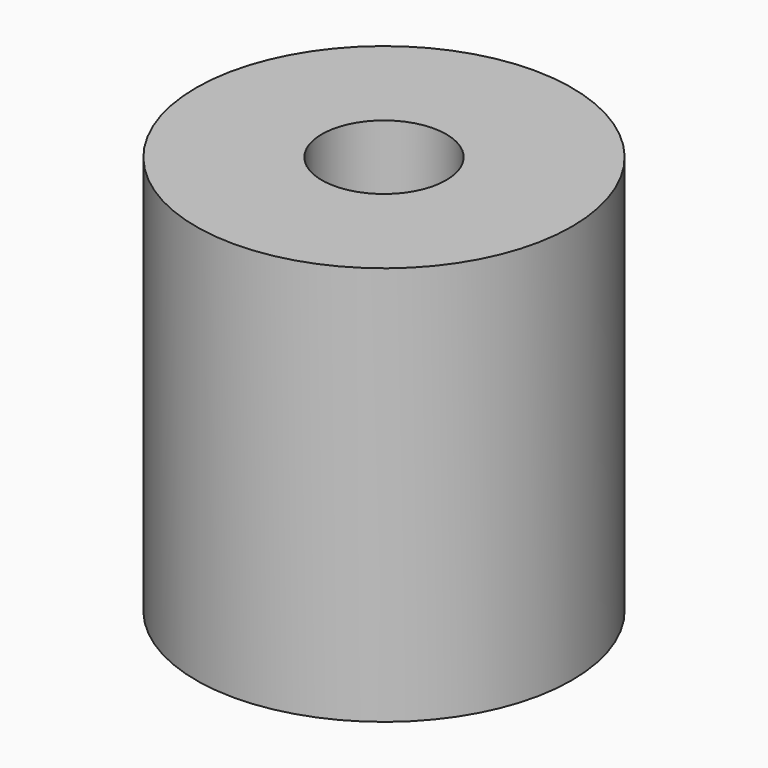
from build123d import *

# Parameters (mm, degrees)
CYLINDER697_R     = 2.65
CYLINDER697_DEPTH = 40
CYLINDER696_R     = 8
CYLINDER696_DEPTH = 17


with BuildPart() as obj1:
    # Cylinder697 → Cylinder697 (new body)
    with BuildSketch(Plane(origin=(0, 83, 232), x_dir=(1, 0, 0), z_dir=(0, 0, 1))):
        Circle(CYLINDER697_R)
    extrude(amount=CYLINDER697_DEPTH)


with BuildPart() as cut275:
    # Cylinder696 → Cylinder696 (new body)
    with BuildSketch(Plane(origin=(0, 83, 252), x_dir=(1, 0, 0), z_dir=(0, 0, 1))):
        Circle(CYLINDER696_R)
    extrude(amount=CYLINDER696_DEPTH)

    # Cut275: cut obj1
    add(obj1.part, mode=Mode.SUBTRACT)


solid = cut275.part
